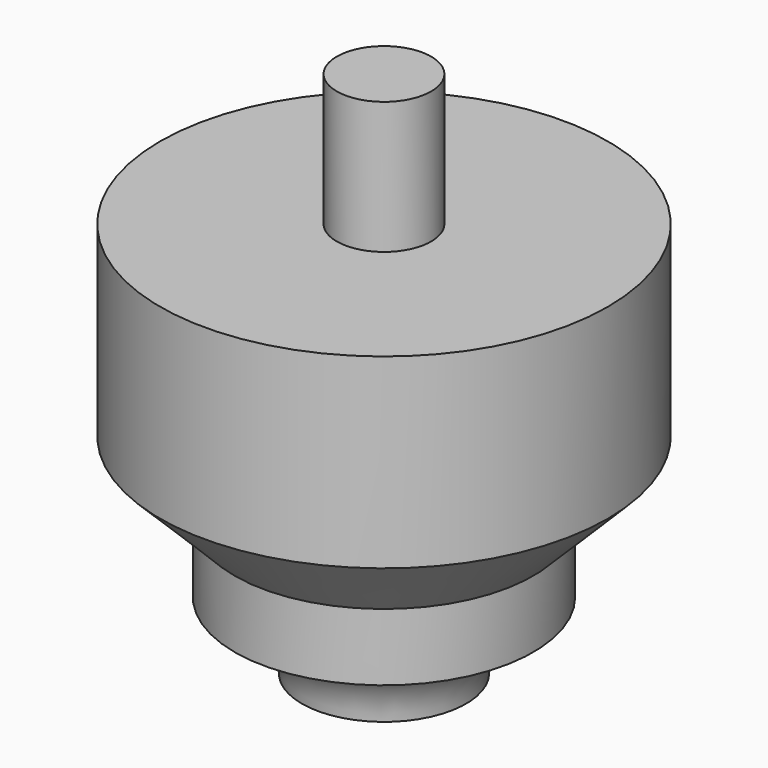
from build123d import *

# Parameters (mm, degrees)
F0_W = 3.175
F0_H = 8.89


with BuildPart() as f1:
    # F0 (on Front) → F1 (revolve)
    with BuildSketch(Plane.XZ):
        with BuildLine():
            Line((11.894255, 26.616095), (0, 26.616095))
            Line((0, 26.616095), (0, 14.065955))
            Line((0, 14.065955), (5.023555, 9.0424))
            Line((5.023555, 9.0424), (5.023555, 4.5212))
            ThreePointArc((5.023555, 4.5212), (8.220526, 3.196971), (9.544755, 0))
            Line((9.544755, 0), (15.069255, 0))
            Line((15.069255, 0), (15.069255, 26.616095))
            Line((15.069255, 26.616095), (11.894255, 26.616095))
        make_face()
        with Locations((13.481755, 31.061095)):
            Rectangle(F0_W, F0_H)
    revolve(axis=Axis((15.069255, 0, 17.753048), (0, 0, -1)))


solid = f1.part
